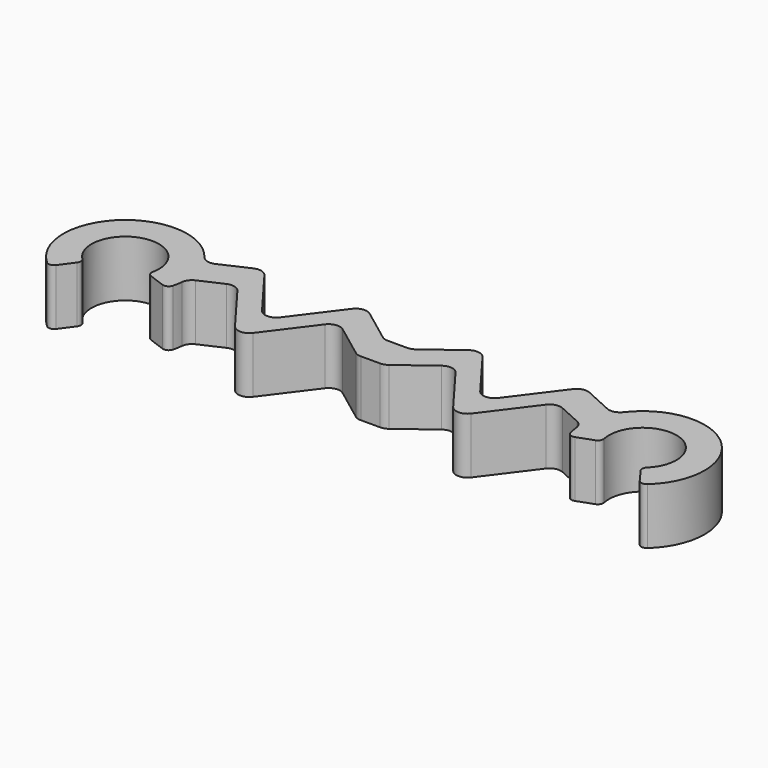
from build123d import *

# Parameters (mm, degrees)
F1_DEPTH = 5


with BuildPart() as f1:
    # F0 (on Top) → F1 (new body)
    with BuildSketch(Plane.XY):
        with BuildLine():
            ThreePointArc((-25.101735, -2.140727), (-23.870598, 2.870899), (-20.063256, -0.612811))
            ThreePointArc((-20.063256, -0.612811), (-20.010657, -0.958164), (-19.744809, -1.184793))
            Line((-19.744809, -1.184793), (-18.325088, -1.701529))
            ThreePointArc((-18.325088, -1.701529), (-17.920348, -1.673689), (-17.669486, -1.354851))
            ThreePointArc((-17.669486, -1.354851), (-17.584242, -0.958941), (-17.528362, -0.557833))
            ThreePointArc((-17.528362, -0.557833), (-17.345671, -0.075812), (-16.947174, 0.251176))
            Line((-16.947174, 0.251176), (-14.930125, 1.167622))
            ThreePointArc((-14.930125, 1.167622), (-14.268664, 1.225998), (-13.71647, 0.857188))
            Line((-13.71647, 0.857188), (-10.498578, -3.433333))
            ThreePointArc((-10.498578, -3.433333), (-9.698578, -3.833333), (-8.898578, -3.433333))
            Line((-8.898578, -3.433333), (-5.798578, 0.7))
            ThreePointArc((-5.798578, 0.7), (-5.14, 1.089949), (-4.398578, 0.9))
            Line((-4.398578, 0.9), (-1.465245, -1.3))
            ThreePointArc((-1.465245, -1.3), (-1.181473, -1.448683), (-0.865245, -1.5))
            Line((-0.865245, -1.5), (0, -1.5))
            Line((0, -1.5), (0, 1.5))
            Line((0, 1.5), (-0.865245, 1.5))
            ThreePointArc((-0.865245, 1.5), (-1.181473, 1.551317), (-1.465245, 1.7))
            Line((-1.465245, 1.7), (-4.398578, 3.9))
            ThreePointArc((-4.398578, 3.9), (-5.14, 4.089949), (-5.798578, 3.7))
            Line((-5.798578, 3.7), (-8.898578, -0.433333))
            ThreePointArc((-8.898578, -0.433333), (-9.698578, -0.833333), (-10.498578, -0.433333))
            Line((-10.498578, -0.433333), (-13.71647, 3.857188))
            ThreePointArc((-13.71647, 3.857188), (-14.268664, 4.225998), (-14.930125, 4.167622))
            Line((-14.930125, 4.167622), (-17.421308, 3.035754))
            ThreePointArc((-17.421308, 3.035754), (-18.07845, 2.976283), (-18.629584, 3.339082))
            ThreePointArc((-18.629584, 3.339082), (-26.729213, 4.042644), (-26.680174, -4.087337))
            ThreePointArc((-26.680174, -4.087337), (-26.294475, -4.213139), (-25.942443, -4.011487))
            Line((-25.942443, -4.011487), (-25.048854, -2.793241))
            ThreePointArc((-25.048854, -2.793241), (-24.953658, -2.457126), (-25.101735, -2.140727))
        make_face()
        with BuildLine():
            Line((0, 1.5), (0, -1.5))
            Line((0, -1.5), (0.865245, -1.5))
            ThreePointArc((0.865245, -1.5), (1.181473, -1.448683), (1.465245, -1.3))
            Line((1.465245, -1.3), (4.398578, 0.9))
            ThreePointArc((4.398578, 0.9), (5.14, 1.089949), (5.798578, 0.7))
            Line((5.798578, 0.7), (8.898578, -3.433333))
            ThreePointArc((8.898578, -3.433333), (9.698578, -3.833333), (10.498578, -3.433333))
            Line((10.498578, -3.433333), (13.71647, 0.857188))
            ThreePointArc((13.71647, 0.857188), (14.268664, 1.225998), (14.930125, 1.167622))
            Line((14.930125, 1.167622), (16.947174, 0.251176))
            ThreePointArc((16.947174, 0.251176), (17.345671, -0.075812), (17.528362, -0.557833))
            ThreePointArc((17.528362, -0.557833), (17.584242, -0.958941), (17.669486, -1.354851))
            ThreePointArc((17.669486, -1.354851), (17.920348, -1.673689), (18.325088, -1.701529))
            Line((18.325088, -1.701529), (19.744809, -1.184793))
            ThreePointArc((19.744809, -1.184793), (20.010657, -0.958164), (20.063256, -0.612811))
            ThreePointArc((20.063256, -0.612811), (23.870598, 2.870899), (25.101735, -2.140727))
            ThreePointArc((25.101735, -2.140727), (24.953658, -2.457126), (25.048854, -2.793241))
            Line((25.048854, -2.793241), (25.942443, -4.011487))
            ThreePointArc((25.942443, -4.011487), (26.294475, -4.213139), (26.680174, -4.087337))
            ThreePointArc((26.680174, -4.087337), (26.729213, 4.042644), (18.629584, 3.339082))
            ThreePointArc((18.629584, 3.339082), (18.07845, 2.976283), (17.421308, 3.035754))
            Line((17.421308, 3.035754), (14.930125, 4.167622))
            ThreePointArc((14.930125, 4.167622), (14.268664, 4.225998), (13.71647, 3.857188))
            Line((13.71647, 3.857188), (10.498578, -0.433333))
            ThreePointArc((10.498578, -0.433333), (9.698578, -0.833333), (8.898578, -0.433333))
            Line((8.898578, -0.433333), (5.798578, 3.7))
            ThreePointArc((5.798578, 3.7), (5.14, 4.089949), (4.398578, 3.9))
            Line((4.398578, 3.9), (1.465245, 1.7))
            ThreePointArc((1.465245, 1.7), (1.181473, 1.551317), (0.865245, 1.5))
            Line((0.865245, 1.5), (0, 1.5))
        make_face()
    extrude(amount=F1_DEPTH)


solid = f1.part
